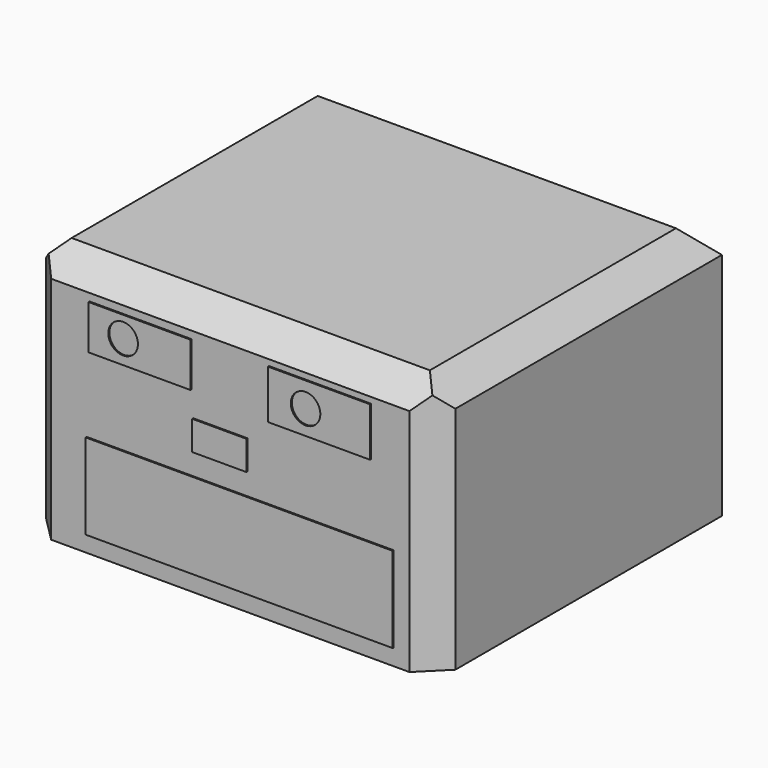
from build123d import *

# Parameters (mm, degrees)
F0_W     = 81.449031
F0_H     = 71.375828
F1_DEPTH = 50.8
F2_W     = 20.32
F2_H     = 8.815292
F2_R     = 2.947041
F2_H_2   = 9.711764
F2_R_2   = 2.935696
F2_W_2   = 10.757647
F2_H_3   = 5.827058
F3_DEPTH = 0.254
F4_SIZE  = 5.08
F5_SIZE  = 5.08
F6_R     = 2.413
F7_DEPTH = 12.7


with BuildPart() as f1:
    # F0 (on Top) → F1 (new body)
    with BuildSketch(Plane.XY):
        with Locations((2.302446, 3.885379)):
            Rectangle(F0_W, F0_H)
    extrude(amount=F1_DEPTH)

    # F2 (on face) → F3 (join)
    with BuildSketch(Plane.XZ.offset(31.802535)):
        with Locations((-15.56207, 39.818236)):
            Rectangle(F2_W, F2_H)
        with Locations((-18.825882, 40.044982)):
            Circle(F2_R, mode=Mode.SUBTRACT)
        with Locations((20.166961, 39.668823)):
            Rectangle(F2_W, F2_H_2)
        with Locations((17.481177, 39.596712)):
            Circle(F2_R_2, mode=Mode.SUBTRACT)
        with Locations((0.298823, 27.566471)):
            Rectangle(F2_W_2, F2_H_3)
        Polygon((-22.112939, 16.584706), (-26.296471, 20.32), (-26.296471, 3.287059), (-22.877605, 7.272481), (-18.23174, 3.287059), (-15.538824, 8.516526), (-11.504705, 3.287059), (-9.26353, 8.66595), (-6.125882, 3.287059), (-4.631764, 8.217677), (0, 4.244351), (1.643529, 8.367102), (6.125882, 3.287059), (10.336007, 8.194863), (12.849411, 3.287059), (17.048708, 8.182241), (21.067059, 3.287059), (22.710588, 8.66595), (26.744705, 3.287059), (28.687059, 9.263645), (32.870589, 3.287059), (34.812941, 10.309614), (34.812941, 15.389412), (30.928233, 20.32), (29.135293, 16.584706), (25.250589, 20.32), (24.052847, 16.584706), (19.495787, 20.32), (16.43407, 16.584706), (11.877011, 20.32), (8.815294, 16.584706), (4.258235, 20.32), (2.926819, 16.584706), (-1.427469, 20.32), (-4.631764, 16.584706), (-8.986052, 20.32), (-14.215461, 16.584706), (-16.88353, 20.32), align=None)
        Polygon((-16.88353, 20.32), (-26.296471, 20.32), (-22.112939, 16.584706), align=None)
        Polygon((-8.986052, 20.32), (-16.88353, 20.32), (-14.215461, 16.584706), align=None)
        Polygon((-22.877605, 7.272481), (-26.296471, 3.287059), (-18.23174, 3.287059), align=None)
        Polygon((-1.427469, 20.32), (-8.986052, 20.32), (-4.631764, 16.584706), align=None)
        Polygon((-15.538824, 8.516526), (-18.23174, 3.287059), (-11.504705, 3.287059), align=None)
        Polygon((4.258235, 20.32), (-1.427469, 20.32), (2.926819, 16.584706), align=None)
        Polygon((-9.26353, 8.66595), (-11.504705, 3.287059), (-6.125882, 3.287059), align=None)
        Polygon((11.877011, 20.32), (4.258235, 20.32), (8.815294, 16.584706), align=None)
        Polygon((-4.631764, 8.217677), (-6.125882, 3.287059), (6.125882, 3.287059), (1.643529, 8.367102), (0, 4.244351), align=None)
        Polygon((19.495787, 20.32), (11.877011, 20.32), (16.43407, 16.584706), align=None)
        Polygon((10.336007, 8.194863), (6.125882, 3.287059), (12.849411, 3.287059), align=None)
        Polygon((25.250589, 20.32), (19.495787, 20.32), (24.052847, 16.584706), align=None)
        Polygon((17.048708, 8.182241), (12.849411, 3.287059), (21.067059, 3.287059), align=None)
        Polygon((30.928233, 20.32), (25.250589, 20.32), (29.135293, 16.584706), align=None)
        Polygon((22.710588, 8.66595), (21.067059, 3.287059), (26.744705, 3.287059), align=None)
        Polygon((34.812941, 20.32), (30.928233, 20.32), (34.812941, 15.389412), align=None)
        Polygon((28.687059, 9.263645), (26.744705, 3.287059), (32.870589, 3.287059), align=None)
        Polygon((34.812941, 10.309614), (32.870589, 3.287059), (34.812941, 3.287059), align=None)
    extrude(amount=F3_DEPTH)

    # F4
    f4_edges = [f1.edges().sort_by_distance(p)[0] for p in [
        (2.302445, -31.802535, 50.8),
        (-38.42207, -31.802535, 25.4),
        (43.026961, -31.802535, 25.4),
    ]]
    chamfer(f4_edges, length=F4_SIZE)

    # F5
    f5_edges = [f1.edges().sort_by_distance(p)[0] for p in [
        (-38.42207, 6.425379, 50.8),
        (43.026961, 6.425379, 50.8),
        (2.302445, 39.573293, 50.8),
    ]]
    chamfer(f5_edges, length=F5_SIZE)

    # F6 (on face) → F7 (cut)
    with BuildSketch(Plane(origin=(0, 0, 0), x_dir=(1, 0, 0), z_dir=(0, 0, -1))):
        Circle(F6_R)
    extrude(amount=-F7_DEPTH, mode=Mode.SUBTRACT)


solid = f1.part
